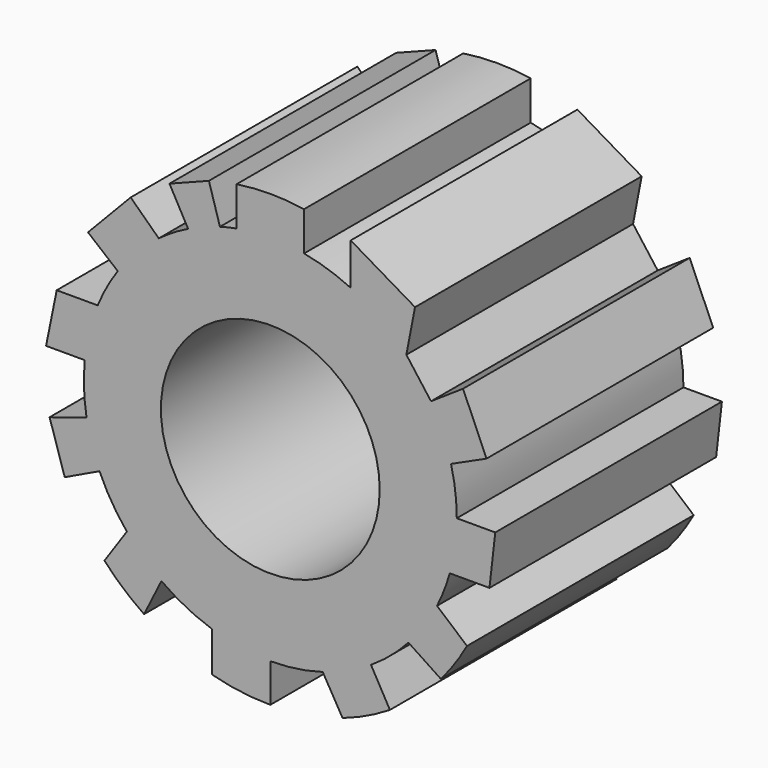
from build123d import *

# Parameters (mm, degrees)
F0_R     = 19.61617
F1_DEPTH = 50.8


with BuildPart() as f1:
    # F0 (on Front) → F1 (new body)
    with BuildSketch(Plane.XZ):
        with BuildLine():
            Line((-6.052636, 39.878492), (-6.052636, 32.884275))
            ThreePointArc((-6.052636, 32.884275), (-7.548644, 32.573424), (-9.028888, 32.194551))
            Line((-9.028888, 32.194551), (-11.007963, 38.804037))
            Line((-11.007963, 38.804037), (-18.076009, 36.058098))
            Line((-18.076009, 36.058098), (-14.738214, 30.013247))
            ThreePointArc((-14.738214, 30.013247), (-17.441313, 28.527365), (-19.995981, 26.798707))
            Line((-19.995981, 26.798707), (-25.037277, 31.623777))
            Line((-25.037277, 31.623777), (-32.690295, 23.627805))
            Line((-32.690295, 23.627805), (-27.349421, 19.235881))
            ThreePointArc((-27.349421, 19.235881), (-29.333744, 16.048096), (-30.948132, 12.657925))
            Line((-30.948132, 12.657925), (-38.297591, 12.657925))
            Line((-38.297591, 12.657925), (-40.203536, 3.256409))
            Line((-40.203536, 3.256409), (-33.277707, 3.256409))
            ThreePointArc((-33.277707, 3.256409), (-33.413831, -1.235271), (-32.946427, -5.704638))
            Line((-32.946427, -5.704638), (-39.573435, -7.802038))
            Line((-39.573435, -7.802038), (-36.856234, -16.387391))
            Line((-36.856234, -16.387391), (-30.628721, -13.41236))
            ThreePointArc((-30.628721, -13.41236), (-28.455593, -17.558165), (-25.724808, -21.359874))
            Line((-25.724808, -21.359874), (-29.741899, -27.246063))
            ThreePointArc((-29.741899, -27.246063), (-26.367109, -30.523829), (-22.633617, -33.386343))
            Line((-22.633617, -33.386343), (-19.527745, -27.141797))
            ThreePointArc((-19.527745, -27.141797), (-15.172234, -29.796196), (-10.463662, -31.757231))
            Line((-10.463662, -31.757231), (-10.463662, -38.954336))
            ThreePointArc((-10.463662, -38.954336), (-5.277192, -39.988496), (0, -40.335202))
            Line((0, -40.335202), (0, -33.436656))
            ThreePointArc((0, -33.436656), (4.750751, -33.097437), (9.405108, -32.086663))
            Line((9.405108, -32.086663), (12.953476, -38.198639))
            ThreePointArc((12.953476, -38.198639), (17.318161, -36.428147), (21.446691, -34.160913))
            Line((21.446691, -34.160913), (18.053638, -28.143847))
            ThreePointArc((18.053638, -28.143847), (21.60412, -25.52003), (24.777977, -22.451321))
            Line((24.777977, -22.451321), (30.581673, -26.299997))
            ThreePointArc((30.581673, -26.299997), (33.096887, -23.054818), (35.269166, -19.570756))
            Line((35.269166, -19.570756), (29.892103, -14.982395))
            ThreePointArc((29.892103, -14.982395), (31.173038, -12.093454), (32.175517, -9.096488))
            Line((32.175517, -9.096488), (39.296087, -9.096488))
            Line((39.296087, -9.096488), (40.335202, 0))
            Line((40.335202, 0), (33.436656, 0))
            ThreePointArc((33.436656, 0), (33.177826, 4.152331), (32.405342, 8.240376))
            Line((32.405342, 8.240376), (38.766721, 11.138667))
            Line((38.766721, 11.138667), (34.556119, 20.803923))
            Line((34.556119, 20.803923), (28.816288, 16.959703))
            Line((28.816288, 16.959703), (24.398983, 22.862625))
            Line((24.398983, 22.862625), (25.948878, 30.88016))
            Line((25.948878, 30.88016), (14.420494, 37.669323))
            Line((14.420494, 37.669323), (14.420494, 30.167189))
            ThreePointArc((14.420494, 30.167189), (10.326321, 31.802155), (6.052636, 32.884275))
            Line((6.052636, 32.884275), (6.052636, 39.878492))
            ThreePointArc((6.052636, 39.878492), (0, 40.335202), (-6.052636, 39.878492))
        make_face()
        Circle(F0_R, mode=Mode.SUBTRACT)
    extrude(amount=F1_DEPTH)


solid = f1.part
